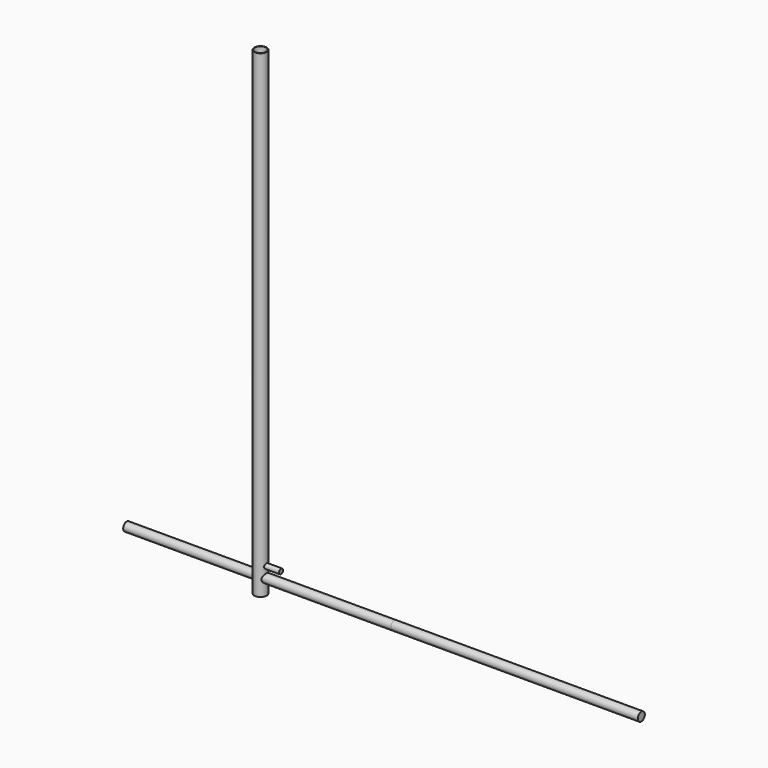
from build123d import *

# Parameters (mm, degrees)
F0_R      = 6
F0_R_2    = 5.5
F1_DEPTH  = 465
F2_R      = 2.4414340199
F3_DEPTH  = 20
F5_D      = 8
F5_DEPTH  = 6.0010001
F6_D      = 8
F7_DEPTH  = 130
F7_FACE_R = 4.25
F8_DEPTH  = 240


with BuildPart() as f1:
    # F0 (on Top) → F1 (new body)
    with BuildSketch(Plane.XY):
        Circle(F0_R)
        Circle(F0_R_2, mode=Mode.SUBTRACT)
    extrude(amount=F1_DEPTH)

    # F2 (on Right) → F3 (join)
    with BuildSketch(Plane.YZ):
        with Locations((0, 25.2948626876)):
            Circle(F2_R)
    extrude(amount=F3_DEPTH)

    # F5 (through all, one way)
    with BuildSketch(Plane.YZ):
        with Locations((0, 15)):
            Circle(F5_D / 2)
    extrude(amount=-F5_DEPTH, mode=Mode.SUBTRACT)

    # F6 (through all)
    with Locations(Plane(origin=(0, 0, 0), x_dir=(0, 1, 0), z_dir=(-1, 0, 0))):
        with Locations((0, -15)):
            Hole(F6_D / 2)

    # F4 (on Right) → F7 (join, symmetric)
    with BuildSketch(Plane.YZ):
        with BuildLine():
            ThreePointArc((0, 10.75), (3.00520382, 11.99479618), (4.25, 15))
            ThreePointArc((4.25, 15), (-3.00520382, 18.00520382), (0, 10.75))
        make_face()
    extrude(amount=F7_DEPTH, both=True)

    # F7_face (on face) → F8 (join)
    with BuildSketch(Plane(origin=(130, 0, 15), x_dir=(0, 1, 0), z_dir=(1, 0, 0))):
        Circle(F7_FACE_R)
    extrude(amount=F8_DEPTH)


solid = f1.part
